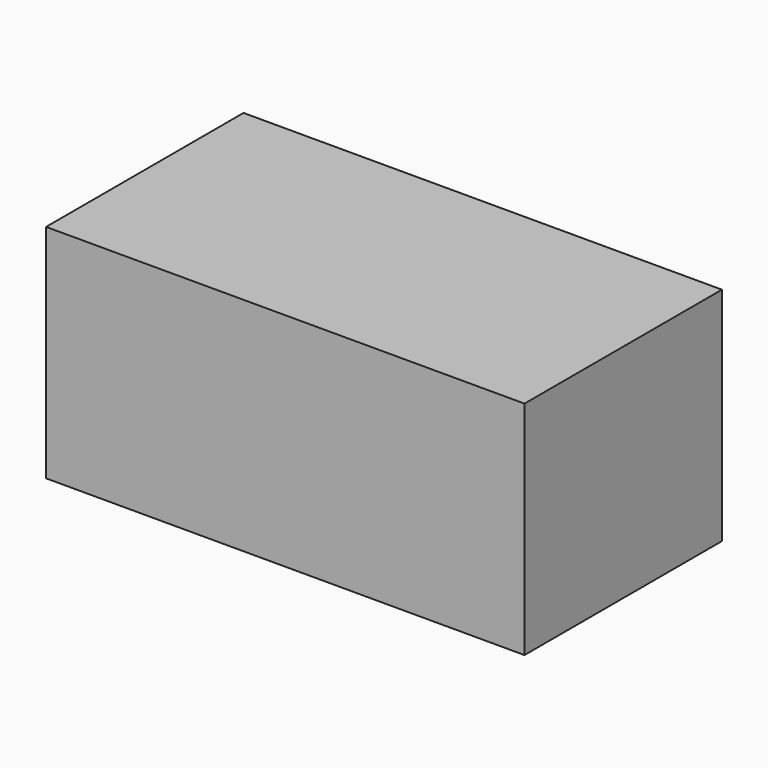
from build123d import *

# Parameters (mm, degrees)
F1_W     = 25.791938
F1_H     = 23.139048
F2_DEPTH = 50


with BuildPart() as f2:
    # F1 (on offset) → F2 (new body)
    with BuildSketch(Plane.YZ.offset(10)):
        with Locations((-4.065682, 52.64063)):
            Rectangle(F1_W, F1_H)
    extrude(amount=F2_DEPTH)


solid = f2.part
